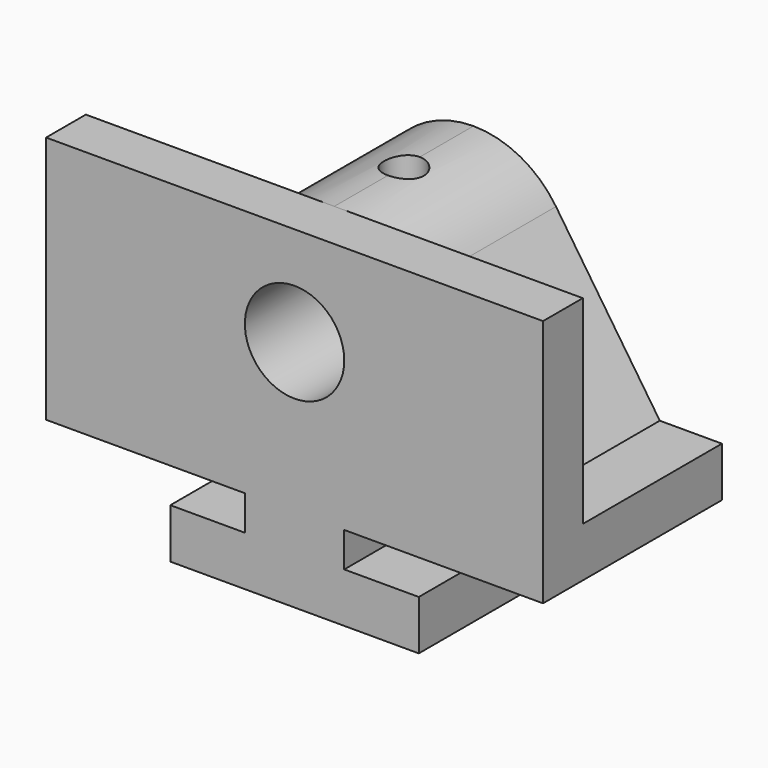
from build123d import *

# Parameters (mm, degrees)
F0_R          = 12.7
F1_DEPTH      = 57.15
F2_DEPTH      = 44.45
F3_R          = 5.08
F4_DEPTH      = 63.501
F4_DEPTH_BACK = 25.4


with BuildPart() as f1:
    # F0 (on Front) → F1 (new body)
    with BuildSketch(Plane.XZ):
        with BuildLine():
            ThreePointArc((84.593426, 52.250173), (75.452941, 60.511765), (63.5, 63.5))
            ThreePointArc((63.5, 63.5), (51.547059, 60.511765), (42.406574, 52.250173))
            Line((42.406574, 52.250173), (15.875, 12.7))
            Line((15.875, 12.7), (0, 12.7))
            Line((0, 12.7), (0, 0))
            Line((0, 0), (50.8, 0))
            Line((50.8, 0), (50.8, -8.89))
            Line((50.8, -8.89), (31.75, -8.89))
            Line((31.75, -8.89), (31.75, -21.59))
            Line((31.75, -21.59), (95.25, -21.59))
            Line((95.25, -21.59), (95.25, -8.89))
            Line((95.25, -8.89), (76.2, -8.89))
            Line((76.2, -8.89), (76.2, 0))
            Line((76.2, 0), (127, 0))
            Line((127, 0), (127, 12.7))
            Line((127, 12.7), (111.125, 12.7))
            Line((111.125, 12.7), (84.593426, 52.250173))
        make_face()
        with Locations((63.5, 38.1)):
            Circle(F0_R, mode=Mode.SUBTRACT)
        with BuildLine():
            Line((127, 63.5), (63.5, 63.5))
            ThreePointArc((63.5, 63.5), (75.452941, 60.511765), (84.593426, 52.250173))
            Line((84.593426, 52.250173), (111.125, 12.7))
            Line((111.125, 12.7), (127, 12.7))
            Line((127, 12.7), (127, 63.5))
        make_face()
        with BuildLine():
            Line((63.5, 63.5), (0, 63.5))
            Line((0, 63.5), (0, 12.7))
            Line((0, 12.7), (15.875, 12.7))
            Line((15.875, 12.7), (42.406574, 52.250173))
            ThreePointArc((42.406574, 52.250173), (51.547059, 60.511765), (63.5, 63.5))
        make_face()
    extrude(amount=F1_DEPTH)

    # F0 (on Front) → F2 (cut)
    with BuildSketch(Plane.XZ):
        with BuildLine():
            Line((63.5, 63.5), (0, 63.5))
            Line((0, 63.5), (0, 12.7))
            Line((0, 12.7), (15.875, 12.7))
            Line((15.875, 12.7), (42.406574, 52.250173))
            ThreePointArc((42.406574, 52.250173), (51.547059, 60.511765), (63.5, 63.5))
        make_face()
        with BuildLine():
            Line((127, 63.5), (63.5, 63.5))
            ThreePointArc((63.5, 63.5), (75.452941, 60.511765), (84.593426, 52.250173))
            Line((84.593426, 52.250173), (111.125, 12.7))
            Line((111.125, 12.7), (127, 12.7))
            Line((127, 12.7), (127, 63.5))
        make_face()
    extrude(amount=F2_DEPTH, mode=Mode.SUBTRACT)

    # F3 (on Top) → F4 (cut, two sides)
    with BuildSketch(Plane.XY) as f4_sk:
        with Locations((63.505031, -22.225)):
            Circle(F3_R)
    extrude(amount=F4_DEPTH, mode=Mode.SUBTRACT)
    extrude(f4_sk.sketch, amount=-F4_DEPTH_BACK, mode=Mode.SUBTRACT)


solid = f1.part
